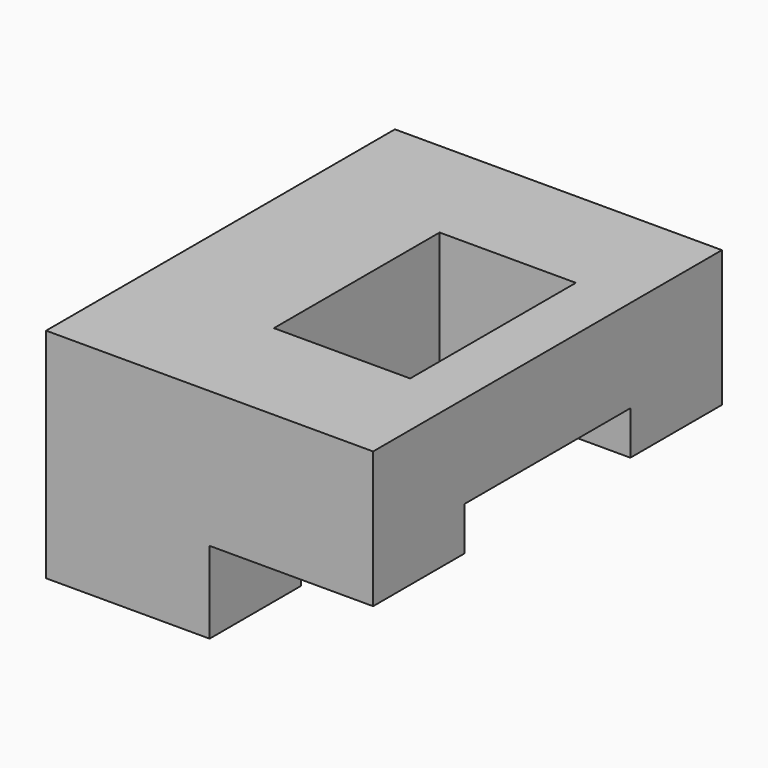
from build123d import *

# Parameters (mm, degrees)
SKETCH048_W     = 16
SKETCH048_H     = 8
PAD027_DEPTH    = 12
SKETCH049_W     = 7.6
SKETCH049_H     = 8
POCKET017_DEPTH = 7
SKETCH050_W     = 3
SKETCH050_H     = 6
POCKET018_DEPTH = 16.001
SKETCH060_W     = 3.4
SKETCH060_H     = 2
PAD032_DEPTH    = 9


with BuildPart() as part:
    # Sketch048 → Pad027 (new body)
    with BuildSketch(Plane.YZ):
        with Locations((0, 4)):
            Rectangle(SKETCH048_W, SKETCH048_H)
    extrude(amount=PAD027_DEPTH)

    # Sketch049 (on Face6 of Pad027) → Pocket017 (cut)
    with BuildSketch(Plane.YZ.offset(12)):
        with Locations((0, 4)):
            Rectangle(SKETCH049_W, SKETCH049_H)
    extrude(amount=-POCKET017_DEPTH, mode=Mode.SUBTRACT)

    # Sketch050 (on Face9 of Pocket017) → Pocket018 (cut, through all)
    with BuildSketch(Plane(origin=(0, -8, 0), x_dir=(0, 0, -1), z_dir=(0, -1, 0))):
        with Locations((-1.5, 9)):
            Rectangle(SKETCH050_W, SKETCH050_H)
    extrude(amount=-POCKET018_DEPTH, mode=Mode.SUBTRACT)

    # Sketch060 (on Face5 of Pocket018) → Pad032 (join)
    with BuildSketch(Plane(origin=(0, 3.8, 0), x_dir=(0, 0, -1), z_dir=(0, -1, 0))):
        with Locations((-6.3, 11)):
            Rectangle(SKETCH060_W, SKETCH060_H)
    extrude(amount=PAD032_DEPTH)


with BuildPart() as part_1:
    # Body005 placement: moved
    add(part.part.moved(Location((-45.5, -30.1, 10.6))))


solid = part_1.part
